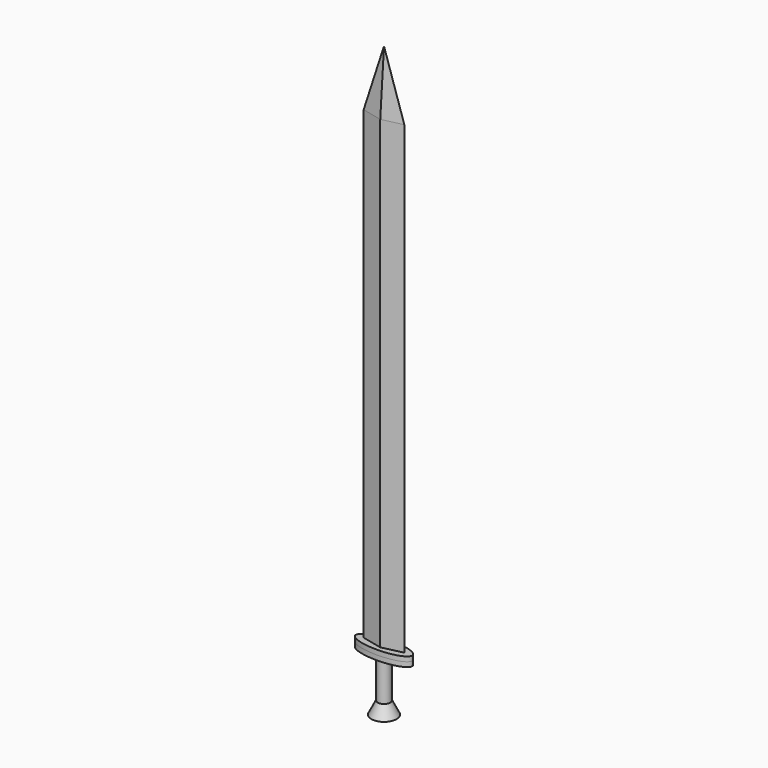
from build123d import *

# Parameters (mm, degrees)
F0_R      = 0.8
F2_R      = 0.4
F6_DEPTH  = 2.6
F7_DEPTH  = 0.3
F10_DEPTH = 30
F14_SCALE = 1.4


with BuildPart() as f5:
    # F0 (on Top) → F5 section 0
    with BuildSketch(Plane.XY):
        with Locations((12.9674375057, 4.0830690414)):
            Circle(F0_R)
    # F2 (on offset) → F5 section 1
    with BuildSketch(Plane.XY.offset(0.8)):
        with Locations((12.9674375057, 4.0830690414)):
            Circle(F2_R)
    loft()

    # F6 (add): a face of the model
    f6_faces = [f5.faces().sort_by_distance(p)[0] for p in [
        (12.9674375057, 4.0830690414, 0.8),
    ]]
    extrude(f6_faces, amount=F6_DEPTH)

    # F4 (on offset) → F7 (join, symmetric)
    with BuildSketch(Plane.XY.offset(3.6)):
        with BuildLine():
            add(Edge.make_bspline(
                [(11.1674375057, 4.0830690414), (11.1674375057, 3.0438385568), (13.8674375057, 3.5634537991), (16.5674375057, 4.0830690414), (13.8674375057, 4.6026842836), (11.1674375057, 5.1222995259), (11.1674375057, 4.0830690414)],
                knots=[0, 0, 0, 2.0943951024, 2.0943951024, 4.1887902048, 4.1887902048, 6.2831853072, 6.2831853072, 6.2831853072], degree=2, weights=[1, 0.5, 1, 0.5, 1, 0.5, 1]))
        make_face()
    extrude(amount=F7_DEPTH, both=True)

    # F9 (on offset) → F10 (join)
    with BuildSketch(Plane.XY.offset(3.6)):
        Polygon((12.9674375057, 4.3830690414), (11.6674375057, 4.0830690414), (12.9674375057, 3.7830690414), (14.2674375057, 4.0830690414), align=None)
    extrude(amount=F10_DEPTH)

    # F10_face (on face) → F13 section 0
    with BuildSketch(Plane(origin=(12.9674375057, 4.0830690414, 33.6), x_dir=(1, 0, 0), z_dir=(0, 0, 1)), mode=Mode.PRIVATE) as f13_s0:
        Polygon((0, 0.3), (-1.3, 0), (0, -0.3), (1.3, 0), align=None)
    loft([f13_s0.sketch, Vertex(12.9674375057, 4.0830690414, 37.6)])


with BuildPart() as f5_1:
    # F14: moved
    add(f5.part.scale(F14_SCALE))


solid = f5_1.part
